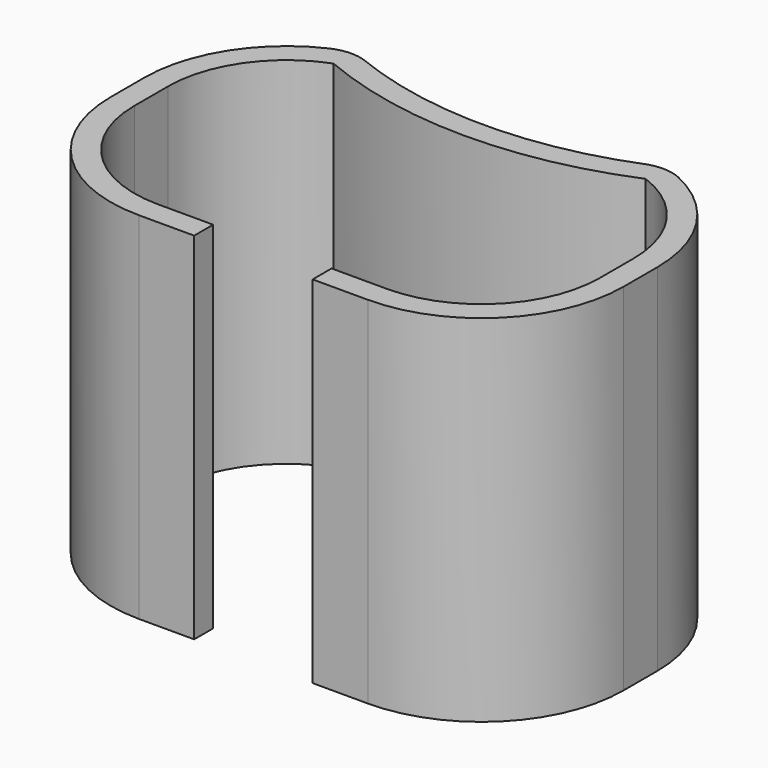
from build123d import *

# Parameters (mm, degrees)
F1_DEPTH = 38.1


with BuildPart() as f1:
    # F0 (on Top) → F1 (new body)
    with BuildSketch(Plane.XY):
        with BuildLine():
            ThreePointArc((-35.722549, 0.33281), (-31.258856, -10.443497), (-20.482549, -14.90719))
            Line((-20.482549, -14.90719), (-14.572549, -14.90719))
            Line((-14.572549, -14.90719), (-14.572549, -12.36719))
            Line((-14.572549, -12.36719), (-20.482549, -12.36719))
            ThreePointArc((-20.482549, -12.36719), (-29.462805, -8.647446), (-33.182549, 0.33281))
            Line((-33.182549, 0.33281), (-33.182549, 4.85281))
            ThreePointArc((-33.182549, 4.85281), (-30.926513, 12.07871), (-24.959931, 16.737382))
            ThreePointArc((-24.959931, 16.737382), (-8.222549, 13.368036), (8.514833, 16.737382))
            ThreePointArc((8.514833, 16.737382), (14.481415, 12.07871), (16.737451, 4.85281))
            Line((16.737451, 4.85281), (16.737451, 0.33281))
            ThreePointArc((16.737451, 0.33281), (13.017707, -8.647446), (4.037451, -12.36719))
            Line((4.037451, -12.36719), (-1.872549, -12.36719))
            Line((-1.872549, -12.36719), (-1.872549, -14.90719))
            Line((-1.872549, -14.90719), (4.037451, -14.90719))
            ThreePointArc((4.037451, -14.90719), (14.813758, -10.443497), (19.277451, 0.33281))
            Line((19.277451, 0.33281), (19.277451, 4.85281))
            ThreePointArc((19.277451, 4.85281), (16.8835, 13.052604), (10.453746, 18.676295))
            ThreePointArc((10.453746, 18.676295), (8.793055, 19.090901), (7.092291, 18.89803))
            ThreePointArc((7.092291, 18.89803), (-8.222549, 15.908036), (-23.537389, 18.89803))
            ThreePointArc((-23.537389, 18.89803), (-25.238153, 19.090901), (-26.898845, 18.676295))
            ThreePointArc((-26.898845, 18.676295), (-33.328598, 13.052604), (-35.722549, 4.85281))
            Line((-35.722549, 4.85281), (-35.722549, 0.33281))
        make_face()
    extrude(amount=F1_DEPTH)


solid = f1.part
